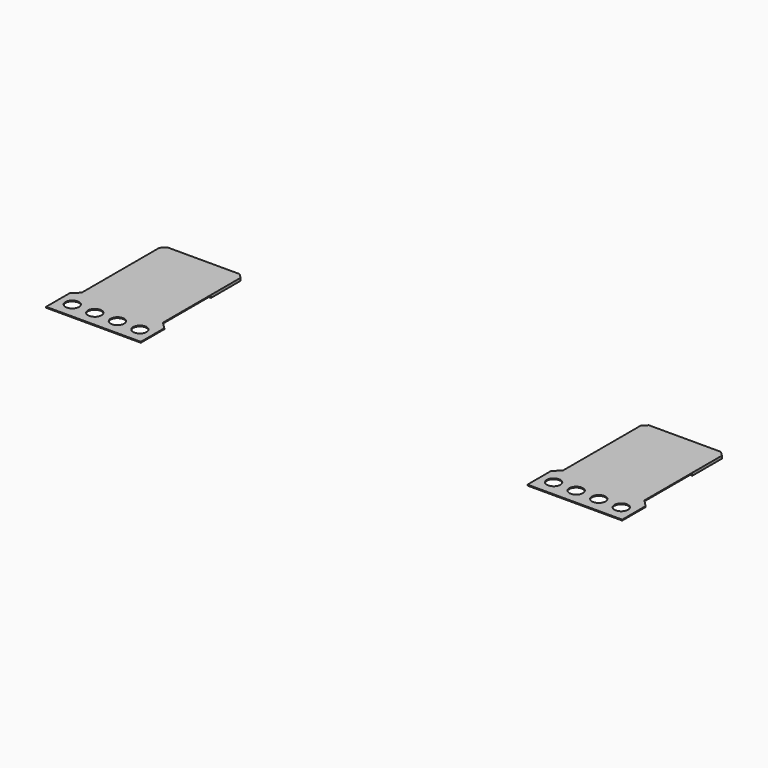
from build123d import *

# Parameters (mm, degrees)
SKETCH_R     = 0.75
PAD_DEPTH    = 0.1
PAD001_DEPTH = 0.2
SKETCH002_R  = 0.75
PAD002_DEPTH = 0.1
PAD003_DEPTH = 0.2


with BuildPart() as obj1:
    # Sketch → Pad (new body)
    with BuildSketch(Plane.XY):
        Polygon((22.17, -1), (22.17, 9.75), (22.67, 10.25), (30.67, 10.25), (31.17, 9.75), (31.17, -1), (31.92, -1.75), (31.92, -5), (21.42, -5), (21.42, -1.75), align=None)
        with Locations((22.92, -3.25)):
            Circle(SKETCH_R, mode=Mode.SUBTRACT)
        with Locations((25.42, -3.25)):
            Circle(SKETCH_R, mode=Mode.SUBTRACT)
        with Locations((27.92, -3.25)):
            Circle(SKETCH_R, mode=Mode.SUBTRACT)
        with Locations((30.42, -3.25)):
            Circle(SKETCH_R, mode=Mode.SUBTRACT)
    extrude(amount=-PAD_DEPTH)

    # Sketch001 (on Face16 of Pad) → Pad001 (join)
    with BuildSketch(Plane(origin=(0, 0, -0.1), x_dir=(1, 0, 0), z_dir=(0, 0, -1))):
        Polygon((22.17, -9.75), (22.17, -5.65), (31.17, -5.65), (31.17, -9.75), (30.67, -10.25), (22.67, -10.25), align=None)
    extrude(amount=PAD001_DEPTH)


with BuildPart() as obj2:
    # Sketch002 → Pad002 (new body)
    with BuildSketch(Plane.XY):
        Polygon((-31.17, -1), (-31.17, 9.75), (-30.67, 10.25), (-22.67, 10.25), (-22.17, 9.75), (-22.17, -1), (-21.42, -1.75), (-21.42, -5), (-31.92, -5), (-31.92, -1.75), align=None)
        with Locations((-30.42, -3.25)):
            Circle(SKETCH002_R, mode=Mode.SUBTRACT)
        with Locations((-27.92, -3.25)):
            Circle(SKETCH002_R, mode=Mode.SUBTRACT)
        with Locations((-25.42, -3.25)):
            Circle(SKETCH002_R, mode=Mode.SUBTRACT)
        with Locations((-22.92, -3.25)):
            Circle(SKETCH002_R, mode=Mode.SUBTRACT)
    extrude(amount=-PAD002_DEPTH)

    # Sketch003 (on Face16 of Pad002) → Pad003 (join)
    with BuildSketch(Plane(origin=(0, 0, -0.1), x_dir=(1, 0, 0), z_dir=(0, 0, -1))):
        Polygon((-31.17, -9.75), (-31.17, -5.65), (-22.17, -5.65), (-22.17, -9.75), (-22.67, -10.25), (-30.67, -10.25), align=None)
    extrude(amount=PAD003_DEPTH)


solid = Compound([obj1.part, obj2.part])
